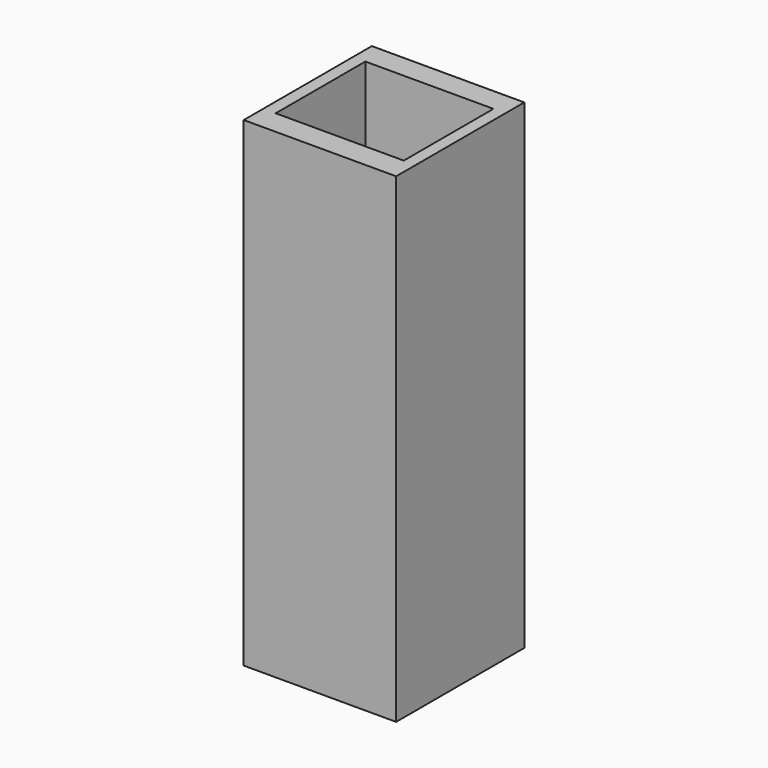
from build123d import *

# Parameters (mm, degrees)
F0_W     = 25
F0_H     = 75
F1_DEPTH = 23.8
F2_W     = 20
F2_H     = 17.5
F3_DEPTH = 25


with BuildPart() as f1:
    # F0 (on Right) → F1 (new body)
    with BuildSketch(Plane.YZ):
        with Locations((12.5, 37.5)):
            Rectangle(F0_W, F0_H)
    extrude(amount=F1_DEPTH)

    # F2 (on face) → F3 (cut)
    with BuildSketch(Plane.XY.offset(75)):
        with Locations((11.931818, 12.573232)):
            Rectangle(F2_W, F2_H)
    extrude(amount=-F3_DEPTH, mode=Mode.SUBTRACT)


solid = f1.part
